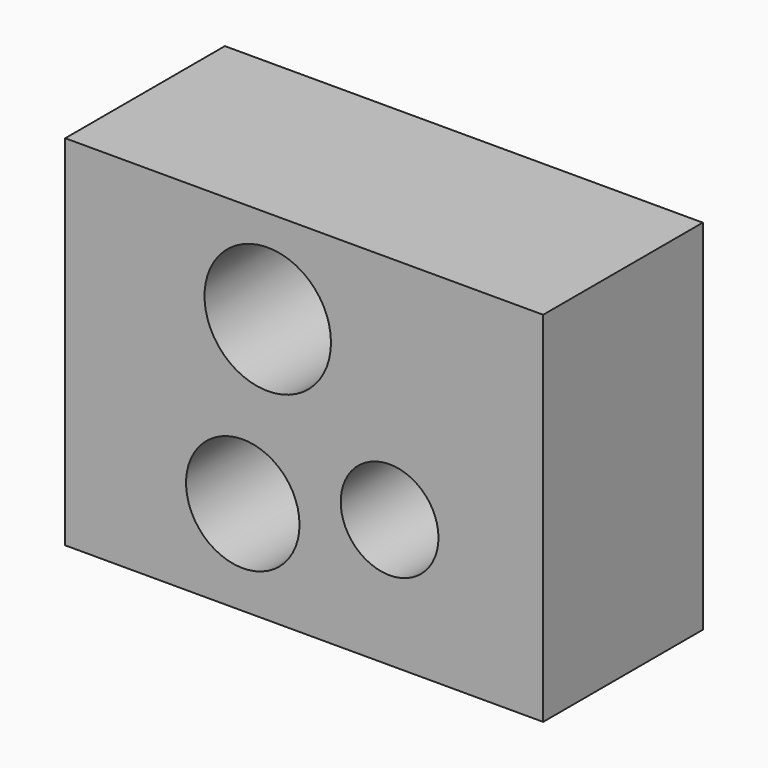
from build123d import *

# Parameters (mm, degrees)
F0_W     = 101.6
F0_H     = 76.2
F1_DEPTH = 42.418
F2_R     = 13.442601
F3_DEPTH = 67.564
F4_R     = 10.393123
F5_DEPTH = 93.218
F6_R     = 12.06034
F7_DEPTH = 66.548


with BuildPart() as f1:
    # F0 (on Front) → F1 (new body)
    with BuildSketch(Plane.XZ):
        with Locations((26.758161, 35.611203)):
            Rectangle(F0_W, F0_H)
    extrude(amount=F1_DEPTH)

    # F2 (on Front) → F3 (cut)
    with BuildSketch(Plane.XZ):
        with Locations((19.011559, 53.825341)):
            Circle(F2_R)
    extrude(amount=F3_DEPTH, mode=Mode.SUBTRACT)

    # F4 (on face) → F5 (cut)
    with BuildSketch(Plane.XZ.offset(42.418)):
        with Locations((44.915249, 24.72481)):
            Circle(F4_R)
    extrude(amount=-F5_DEPTH, mode=Mode.SUBTRACT)

    # F6 (on face) → F7 (cut)
    with BuildSketch(Plane.XZ.offset(42.418)):
        with Locations((13.703964, 17.569638)):
            Circle(F6_R)
    extrude(amount=-F7_DEPTH, mode=Mode.SUBTRACT)


solid = f1.part
